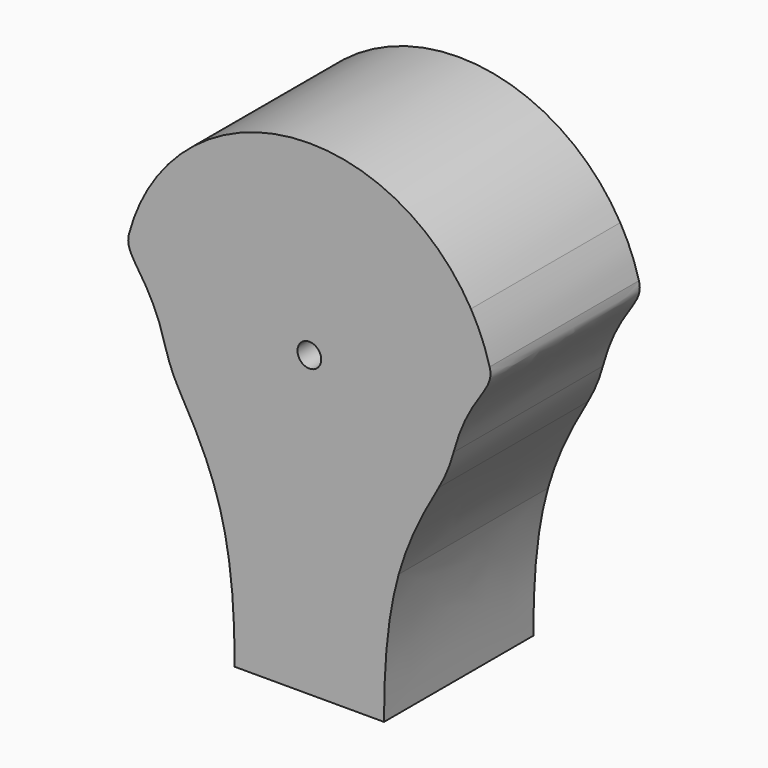
from build123d import *

# Parameters (mm, degrees)
F1_DEPTH = 25
F2_R     = 1.5875
F3_DEPTH = 25


with BuildPart() as f1:
    # F0 (on Front) → F1 (new body)
    with BuildSketch(Plane.XZ):
        with BuildLine():
            Line((-17.3205080757, 10), (0, 0))
            Line((0, 0), (17.3205080757, 10))
            ThreePointArc((17.3205080757, 10), (0, 20), (-17.3205080757, 10))
        make_face()
        with BuildLine():
            ThreePointArc((21.6506350946, 12.5), (0, 25), (-21.6506350946, 12.5))
            Line((-21.6506350946, 12.5), (-17.3205080757, 10))
            ThreePointArc((-17.3205080757, 10), (0, 20), (17.3205080757, 10))
            Line((17.3205080757, 10), (21.6506350946, 12.5))
        make_face()
        with BuildLine():
            Line((19.3185165258, 5.1763809021), (24.1481456572, 6.4704761276))
            ThreePointArc((24.1481456572, 6.4704761276), (23.0969883128, 9.5670858091), (21.6506350946, 12.5))
            Line((21.6506350946, 12.5), (17.3205080757, 10))
            ThreePointArc((17.3205080757, 10), (18.4775906502, 7.6536686473), (19.3185165258, 5.1763809021))
        make_face()
        with BuildLine():
            Line((17.3205080757, 10), (0, 0))
            Line((0, 0), (19.3185165258, 5.1763809021))
            ThreePointArc((19.3185165258, 5.1763809021), (18.4775906502, 7.6536686473), (17.3205080757, 10))
        make_face()
        with BuildLine():
            Line((0, 0), (19.3185165258, -5.1763809021))
            ThreePointArc((19.3185165258, -5.1763809021), (19.8288972275, -2.6105238444), (20, 0))
            ThreePointArc((20, 0), (19.8288972275, 2.6105238444), (19.3185165258, 5.1763809021))
            Line((19.3185165258, 5.1763809021), (0, 0))
        make_face()
        with BuildLine():
            add(Edge.make_bspline(
                [(19.3185165258, -5.1763809021), (21.3890688866, 2.5510257083), (24.9246027925, 3.5726986487), (24.1481456572, 6.4704761276)],
                knots=[0, 0, 0, 0, 12.6085128471, 12.6085128471, 12.6085128471, 12.6085128471], degree=3))
            Line((24.1481456572, 6.4704761276), (19.3185165258, 5.1763809021))
            ThreePointArc((19.3185165258, 5.1763809021), (19.8288972275, 2.6105238444), (20, 0))
            ThreePointArc((20, 0), (19.8288972275, -2.6105238444), (19.3185165258, -5.1763809021))
        make_face()
        with BuildLine():
            Line((0, 0), (17.3205080757, -10))
            ThreePointArc((17.3205080757, -10), (18.4775906502, -7.6536686473), (19.3185165258, -5.1763809021))
            Line((19.3185165258, -5.1763809021), (0, 0))
        make_face()
        with BuildLine():
            ThreePointArc((-17.3205080757, -10), (0, -20), (17.3205080757, -10))
            Line((17.3205080757, -10), (0, 0))
            Line((0, 0), (-17.3205080757, 10))
            ThreePointArc((-17.3205080757, 10), (-19.8288972275, 2.6105238444), (-19.3185165258, -5.1763809021))
            ThreePointArc((-19.3185165258, -5.1763809021), (-18.4775906502, -7.6536686473), (-17.3205080757, -10))
        make_face()
        with BuildLine():
            Line((-10, -40), (10, -40))
            add(Edge.make_bspline(
                [(11.9704769274, -21.9478400334), (10.6395133933, -26.6376402025), (10, -32.1254718634), (10, -40)],
                knots=[14.6690901551, 14.6690901551, 14.6690901551, 14.6690901551, 30.8802499745, 30.8802499745, 30.8802499745, 30.8802499745], degree=3))
            ThreePointArc((11.9704769274, -21.9478400334), (0, -25), (-11.9704769274, -21.9478400334))
            add(Edge.make_bspline(
                [(-11.9704769274, -21.9478400334), (-10.6395133933, -26.6376402025), (-10, -32.1254718634), (-10, -40)],
                knots=[14.6690901551, 14.6690901551, 14.6690901551, 14.6690901551, 30.8802499745, 30.8802499745, 30.8802499745, 30.8802499745], degree=3))
        make_face()
        with BuildLine():
            ThreePointArc((-11.9704769274, -21.9478400334), (0, -25), (11.9704769274, -21.9478400334))
            add(Edge.make_bspline(
                [(17.3205080757, -10), (14.9453507879, -14.1138930984), (13.1748339439, -17.7041522123), (11.9704769274, -21.9478400334)],
                knots=[0, 0, 0, 0, 14.6690901551, 14.6690901551, 14.6690901551, 14.6690901551], degree=3))
            ThreePointArc((17.3205080757, -10), (0, -20), (-17.3205080757, -10))
            add(Edge.make_bspline(
                [(-17.3205080757, -10), (-14.9453507879, -14.1138930984), (-13.1748339439, -17.7041522123), (-11.9704769274, -21.9478400334)],
                knots=[0, 0, 0, 0, 14.6690901551, 14.6690901551, 14.6690901551, 14.6690901551], degree=3))
        make_face()
        with BuildLine():
            ThreePointArc((-21.6506350946, 12.5), (-23.0969883128, 9.5670858091), (-24.1481456572, 6.4704761276))
            add(Edge.make_bspline(
                [(-19.3185165258, -5.1763809021), (-21.3890688866, 2.5510257083), (-24.9246027925, 3.5726986487), (-24.1481456572, 6.4704761276)],
                knots=[0, 0, 0, 0, 12.6085128471, 12.6085128471, 12.6085128471, 12.6085128471], degree=3))
            ThreePointArc((-19.3185165258, -5.1763809021), (-19.8288972275, 2.6105238444), (-17.3205080757, 10))
            Line((-17.3205080757, 10), (-21.6506350946, 12.5))
        make_face()
    extrude(amount=F1_DEPTH)

    # F2 (on face) → F3 (cut)
    with BuildSketch(Plane.XZ.offset(25)):
        Circle(F2_R)
    extrude(amount=-F3_DEPTH, mode=Mode.SUBTRACT)


solid = f1.part
